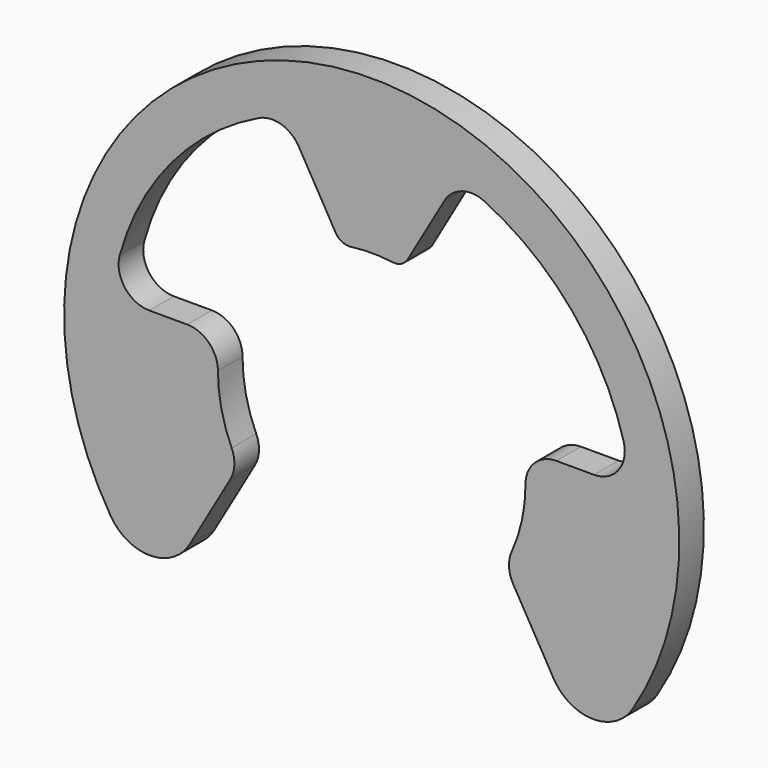
from build123d import *

# Parameters (mm, degrees)
F1_DEPTH = 0.5


with BuildPart() as f1:
    # F0 (on Front) → F1 (new body)
    with BuildSketch(Plane.XZ):
        with BuildLine():
            ThreePointArc((2.954972, -2.626698), (3.591449, -3.001585), (4.240578, -2.649057))
            ThreePointArc((4.240578, -2.649057), (0, 5), (-4.240578, -2.649057))
            ThreePointArc((-4.240578, -2.649057), (-3.591449, -3.001585), (-2.954972, -2.626698))
            Line((-2.954972, -2.626698), (-2.298715, -1.490027))
            ThreePointArc((-2.298715, -1.490027), (-2.232321, -1.264386), (-2.276439, -1.033356))
            ThreePointArc((-2.276439, -1.033356), (-2.443471, -0.528631), (-2.5, 0))
            ThreePointArc((-2.5, 0), (-2.646447, 0.353553), (-3, 0.5))
            Line((-3, 0.5), (-3.614208, 0.5))
            ThreePointArc((-3.614208, 0.5), (-4.012119, 0.697235), (-4.096102, 1.133333))
            ThreePointArc((-4.096102, 1.133333), (-3.257408, 2.729797), (-1.832226, 3.834768))
            ThreePointArc((-1.832226, 3.834768), (-1.468558, 3.861178), (-1.183657, 3.633619))
            Line((-1.183657, 3.633619), (-0.586866, 2.599947))
            ThreePointArc((-0.586866, 2.599947), (-0.480462, 2.500497), (-0.336691, 2.477224))
            ThreePointArc((-0.336691, 2.477224), (0, 2.5), (0.336691, 2.477224))
            ThreePointArc((0.336691, 2.477224), (0.480462, 2.500497), (0.586866, 2.599947))
            Line((0.586866, 2.599947), (1.183657, 3.633619))
            ThreePointArc((1.183657, 3.633619), (1.468558, 3.861178), (1.832226, 3.834768))
            ThreePointArc((1.832226, 3.834768), (3.257408, 2.729797), (4.096102, 1.133333))
            ThreePointArc((4.096102, 1.133333), (4.012119, 0.697235), (3.614208, 0.5))
            Line((3.614208, 0.5), (3, 0.5))
            ThreePointArc((3, 0.5), (2.646447, 0.353553), (2.5, 0))
            ThreePointArc((2.5, 0), (2.443471, -0.528631), (2.276439, -1.033356))
            ThreePointArc((2.276439, -1.033356), (2.232321, -1.264386), (2.298715, -1.490027))
            Line((2.298715, -1.490027), (2.954972, -2.626698))
        make_face()
    extrude(amount=F1_DEPTH)


solid = f1.part
